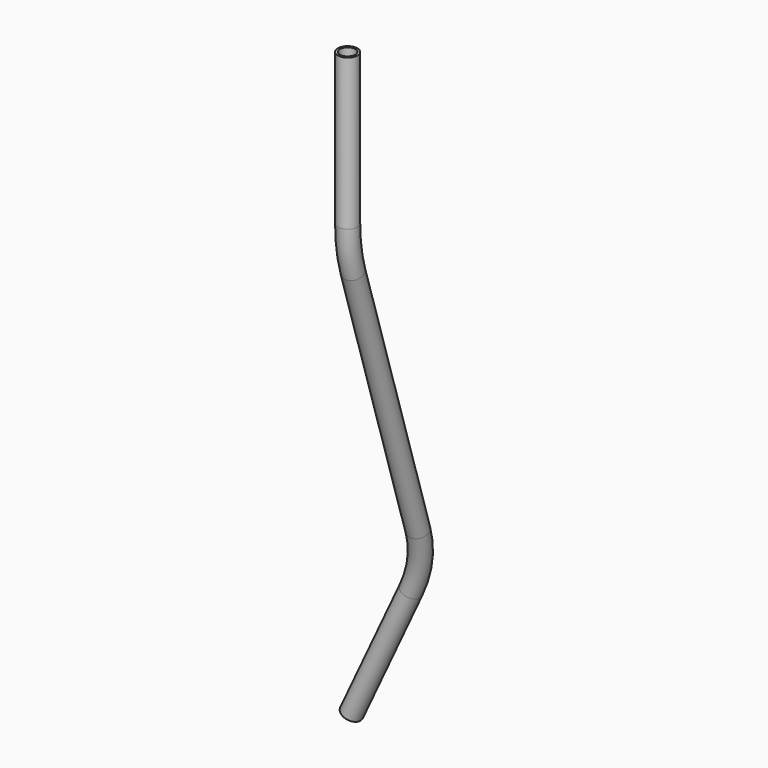
from build123d import *

# Parameters (mm, degrees)
F9_R  = 5.70992
F19_T = -1.27


with BuildPart() as f18:
    # F18: sweep along a path in F17, F15
    with BuildLine(Plane(origin=(-18.3637423375, 20.1351016009, 8.5631536843), x_dir=(0.765976438, 0.5915912125, 0.2515947807), z_dir=(0.6428686463, -0.7048794996, -0.299774573))) as f18_path:
        Line((-104.3560267614, -765.7029674468), (-59.2915965599, -697.5827201055))
        ThreePointArc((-59.2915965599, -697.5827201055), (-50.7236976702, -680.1398940101), (-46.8466127419, -661.0970663304))
        Line((-46.8466127419, -661.0970663304), (-34.4486658994, -491.5368674011))
    with BuildLine(Plane(origin=(-13.4904473735, -2.1704782525, 0), x_dir=(0.1588472207, -0.9873031756, 0), z_dir=(-0.9873031756, -0.1588472207, 0))) as f18_path_2:
        ThreePointArc((-196.793883, -452.4341322386), (-193.1537906934, -439.2556559455), (-191.9272650412, -425.638822825))
        Line((-191.9272650412, -425.638822825), (-191.9272650412, -337.87842))
    # F9 (on line) → F18 (sweep)
    with BuildSketch(Plane(origin=(-294.221288811, 0, -630.9595900165), x_dir=(0.906307787, 0, -0.4226182617), z_dir=(0.4226182617, 0, 0.906307787))):
        with Locations((216.1774306846, 258.06654)):
            Circle(F9_R)
    sweep(path=f18_path.line + f18_path_2.line)

    # F19
    f19_openings = [f18.faces().sort_by_distance(p)[0] for p in [
        (-43.97756, 187.31992, -337.87842),
    ]]
    offset(amount=F19_T, openings=f19_openings)


solid = f18.part
